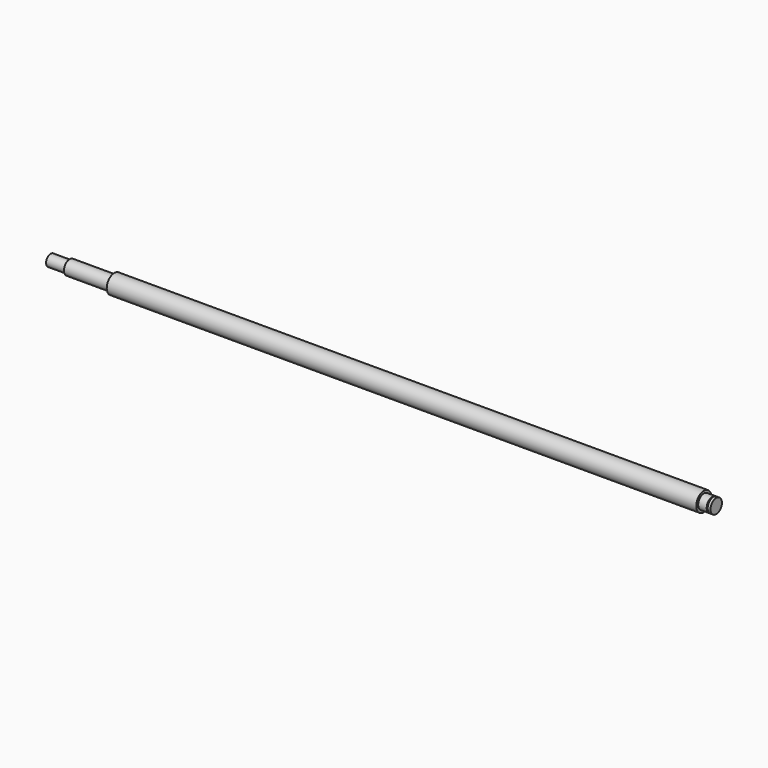
from build123d import *

# Parameters (mm, degrees)
SKETCH_W      = 700
SKETCH_H      = 10
SKETCH001_W   = 67
SKETCH001_H   = 2.5
SKETCH002_W   = 20
SKETCH002_H   = 1.5
SKETCH003_W   = 13
SKETCH003_H   = 2.5
SKETCH003_W_2 = 1
SKETCH003_H_2 = 3.01


with BuildPart() as part:
    # Sketch → Revolution (revolve)
    with BuildSketch(Plane.XZ):
        with Locations((350, 5)):
            Rectangle(SKETCH_W, SKETCH_H)
    revolve(axis=Axis((0, 0, 0), (1, 0, 0)))

    # Sketch001 → Groove (revolve, cut)
    with BuildSketch(Plane.XZ):
        with Locations((33.5, 8.75)):
            Rectangle(SKETCH001_W, SKETCH001_H)
    revolve(axis=Axis((0, 0, 0), (1, 0, 0)), mode=Mode.SUBTRACT)

    # Sketch002 → Groove001 (revolve, cut)
    with BuildSketch(Plane.XZ):
        with Locations((10, 6.75)):
            Rectangle(SKETCH002_W, SKETCH002_H)
    revolve(axis=Axis((0, 0, 0), (1, 0, 0)), mode=Mode.SUBTRACT)

    # Sketch003 → Groove002 (revolve, cut)
    with BuildSketch(Plane.XZ):
        with Locations((693.5, 8.75)):
            Rectangle(SKETCH003_W, SKETCH003_H)
        with Locations((696.5, 5.995)):
            Rectangle(SKETCH003_W_2, SKETCH003_H_2)
    revolve(axis=Axis((0, 0, 0), (1, 0, 0)), mode=Mode.SUBTRACT)


solid = part.part
